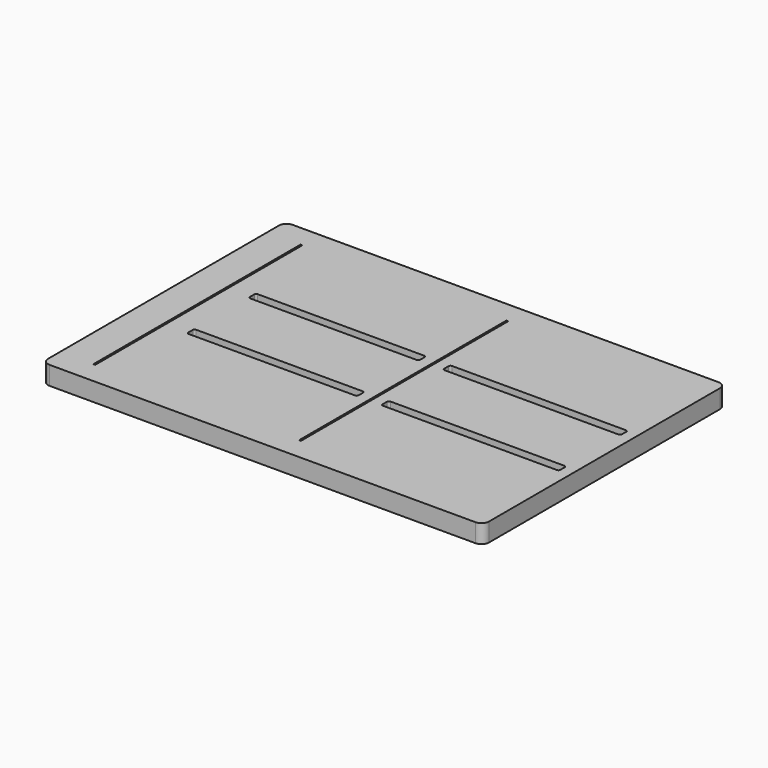
from build123d import *

# Parameters (mm, degrees)
F0_W     = 119.1
F0_H     = 82
F1_DEPTH = 5
F3_DEPTH = 63.1
F4_W     = 6.8
F4_H     = 2.5
F4_W_2   = 7
F4_W_3   = 6.5
F5_DEPTH = 53.3
F6_W     = 48
F6_H     = 2.5
F7_DEPTH = 27.8
F8_W     = 0.5
F8_H     = 70
F9_DEPTH = 25
F10_R    = 2
F11_R    = 0.5
F12_R    = 0.1


with BuildPart() as f1:
    # F0 (on Top) → F1 (new body)
    with BuildSketch(Plane.XY):
        with Locations((59.55, 41)):
            Rectangle(F0_W, F0_H)
    extrude(amount=F1_DEPTH)

    # F2 (on face) → F3 (cut)
    with BuildSketch(Plane.XY.offset(5)):
        Polygon((64.6, 76), (64.6, 25), (64.6, 6), (65.1, 6), (65.1, 76), align=None)
    extrude(amount=-F3_DEPTH, mode=Mode.SUBTRACT)

    # F4 (on face) → F5 (cut)
    with BuildSketch(Plane.XY.offset(5)):
        with Locations((32.3, 51.4)):
            Rectangle(F4_W, F4_H)
        Polygon((35.7, 50.15), (38.9217214942, 50.15), (41.1, 50.15), (41.1, 52.65), (35.7, 52.65), align=None)
        with Locations((44.6, 51.4)):
            Rectangle(F4_W_2, F4_H)
        with Locations((51.35, 51.4)):
            Rectangle(F4_W_3, F4_H)
        with Locations((19, 51.4)):
            Rectangle(F4_W, F4_H)
        with Locations((25.65, 51.4)):
            Rectangle(F4_W_3, F4_H)
        with Locations((58.1, 51.4)):
            Rectangle(F4_W_2, F4_H)
        with Locations((44.6, 30.6)):
            Rectangle(F4_W_2, F4_H)
        with Locations((32.3, 30.6)):
            Rectangle(F4_W, F4_H)
        with Locations((58.1, 30.6)):
            Rectangle(F4_W_2, F4_H)
        Polygon((41.1, 31.85), (38.9217214942, 31.85), (35.7, 31.85), (35.7, 29.35), (38, 29.35), (41.1, 29.35), align=None)
        with Locations((44.6, 30.6)):
            Rectangle(F4_W_2, F4_H)
        with Locations((51.35, 30.6)):
            Rectangle(F4_W_3, F4_H)
        with Locations((25.65, 30.6)):
            Rectangle(F4_W_3, F4_H)
        with Locations((19, 30.6)):
            Rectangle(F4_W, F4_H)
    extrude(amount=-F5_DEPTH, mode=Mode.SUBTRACT)

    # F6 (on face) → F7 (cut)
    with BuildSketch(Plane.XY.offset(5)):
        with Locations((92.1, 51.4)):
            Rectangle(F6_W, F6_H)
        with Locations((92.1, 30.6)):
            Rectangle(F6_W, F6_H)
    extrude(amount=-F7_DEPTH, mode=Mode.SUBTRACT)

    # F8 (on face) → F9 (cut)
    with BuildSketch(Plane.XY.offset(5)):
        with Locations((9.25, 41)):
            Rectangle(F8_W, F8_H)
    extrude(amount=-F9_DEPTH, mode=Mode.SUBTRACT)

    # F10
    f10_edges = [f1.edges().sort_by_distance(p)[0] for p in [
        (119.1, 0, 2.5),
        (0, 0, 2.5),
        (119.1, 82, 2.5),
        (0, 82, 2.5),
    ]]
    fillet(f10_edges, radius=F10_R)

    # F11
    f11_edges = [f1.edges().sort_by_distance(p)[0] for p in [
        (15.6, 52.65, 2.5),
        (15.6, 50.15, 2.5),
        (61.6, 52.65, 2.5),
        (61.6, 50.15, 2.5),
        (68.1, 52.65, 2.5),
        (68.1, 50.15, 2.5),
        (116.1, 52.65, 2.5),
        (116.1, 50.15, 2.5),
        (116.1, 29.35, 2.5),
        (116.1, 31.85, 2.5),
        (68.1, 31.85, 2.5),
        (68.1, 29.35, 2.5),
        (15.6, 29.35, 2.5),
        (15.6, 31.85, 2.5),
        (61.6, 29.35, 2.5),
        (61.6, 31.85, 2.5),
    ]]
    fillet(f11_edges, radius=F11_R)

    # F12
    f12_edges = [f1.edges().sort_by_distance(p)[0] for p in [
        (64.6, 6, 2.5),
        (65.1, 6, 2.5),
        (64.6, 76, 2.5),
        (65.1, 76, 2.5),
        (9.5, 76, 2.5),
        (9, 76, 2.5),
        (9, 6, 2.5),
        (9.5, 6, 2.5),
    ]]
    fillet(f12_edges, radius=F12_R)


solid = f1.part
